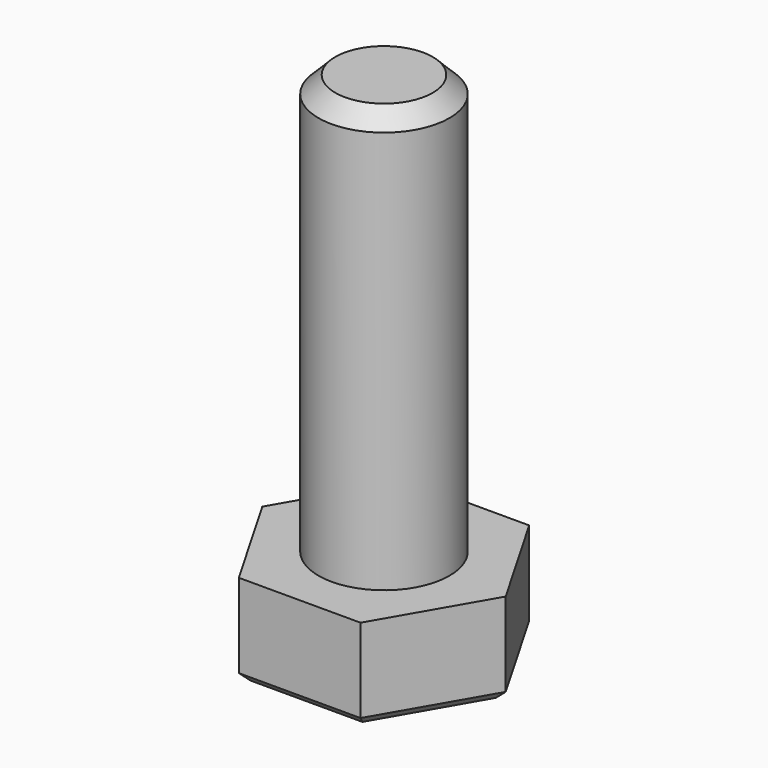
from build123d import *

# Parameters (mm, degrees)
PAD029_DEPTH            = 5.5
SKETCH060_R             = 3.9
PAD030_DEPTH            = 25
CHAMFER011_SIZE         = 1
CHAMFER012_SIZE         = 0.5
BODY020_PLACEMENT_ANGLE = 180


with BuildPart() as part:
    # Sketch059 → Pad029 (new body)
    with BuildSketch(Plane.XY):
        Polygon((7.25, 0), (3.625, 6.278684), (-3.625, 6.278684), (-7.25, 0), (-3.625, -6.278684), (3.625, -6.278684), align=None)
    extrude(amount=PAD029_DEPTH)

    # Sketch060 (on Face7 of Pad029) → Pad030 (join)
    with BuildSketch(Plane(origin=(0, 0, 0), x_dir=(1, 0, 0), z_dir=(0, 0, -1))):
        Circle(SKETCH060_R)
    extrude(amount=PAD030_DEPTH)

    # Chamfer011
    chamfer011_edges = [part.edges().sort_by_distance(p)[0] for p in [
        (-3.9, 0, -25),
    ]]
    chamfer(chamfer011_edges, length=CHAMFER011_SIZE)

    # Chamfer012
    chamfer012_edges = [part.edges().sort_by_distance(p)[0] for p in [
        (5.4375, 3.139342, 5.5),
        (0, 6.278684, 5.5),
        (-5.4375, 3.139342, 5.5),
        (-5.4375, -3.139342, 5.5),
        (0, -6.278684, 5.5),
        (5.4375, -3.139342, 5.5),
    ]]
    chamfer(chamfer012_edges, length=CHAMFER012_SIZE)


with BuildPart() as part_1:
    # Body020 placement: moved
    add(part.part.moved(Location((0, 0, 284))).rotate(Axis((0, 0, 284), (1, 0, 0)), BODY020_PLACEMENT_ANGLE))


solid = part_1.part
